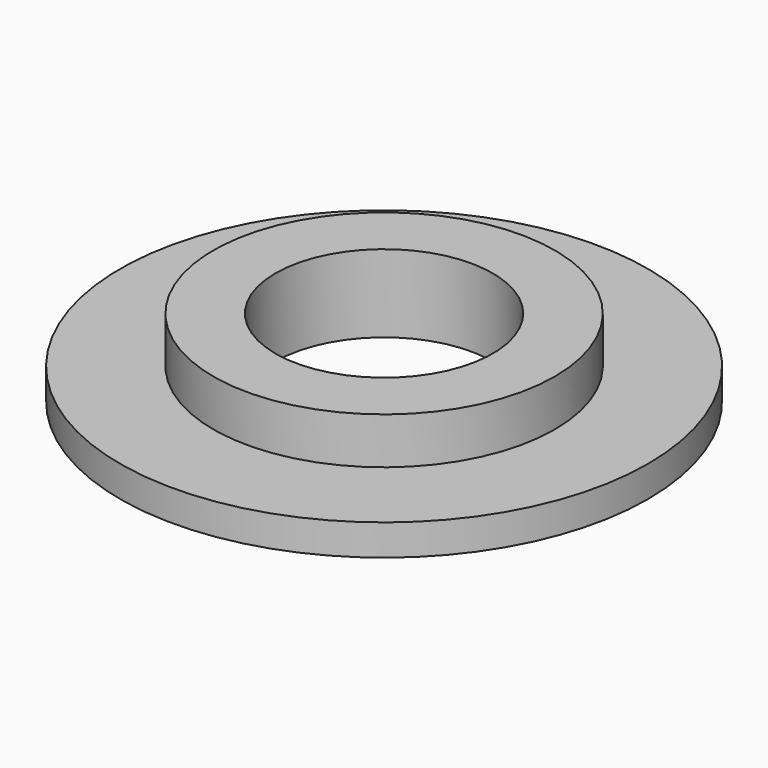
from build123d import *

# Parameters (mm, degrees)
F0_R     = 26.9875
F1_DEPTH = 3.175
F2_R     = 17.4625
F3_DEPTH = 4.7625
F5_D     = 22.225


with BuildPart() as f1:
    # F0 (on Top) → F1 (new body)
    with BuildSketch(Plane.XY):
        Circle(F0_R)
    extrude(amount=F1_DEPTH)

    # F2 (on face) → F3 (join)
    with BuildSketch(Plane.XY.offset(3.175)):
        Circle(F2_R)
    extrude(amount=F3_DEPTH)

    # F5 (through all)
    with Locations(Plane.XY.offset(7.9375)):
        with Locations((0, 0)):
            Hole(F5_D / 2)


solid = f1.part
